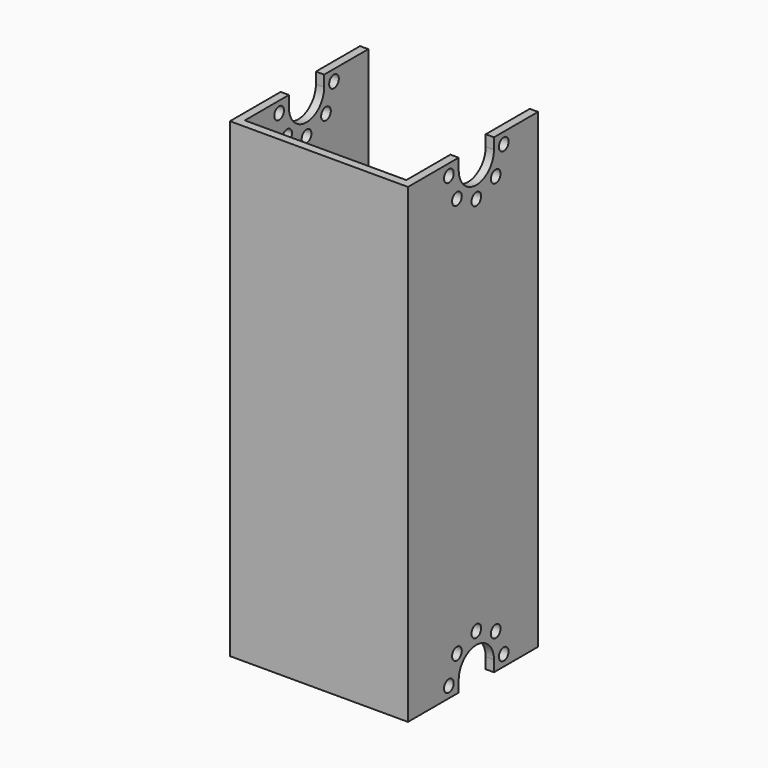
from build123d import *

# Parameters (mm, degrees)
F1_DEPTH = 28
F2_R     = 1.1
F3_DEPTH = 32.301
F4_R     = 1.1
F5_DEPTH = 1.5
F6_W     = 1.5
F6_H     = 86.945
F7_DEPTH = 32.3
F8_R     = 1.1
F9_DEPTH = 32.301


with BuildPart() as f1:
    # F0 (on Front) → F1 (new body)
    with BuildSketch(Plane.XZ):
        Polygon((0, 86.945), (0, 0), (1.5, 0), (1.5, 85.445), (30.8, 85.445), (30.8, 0), (32.3, 0), (32.3, 86.945), align=None)
    extrude(amount=F1_DEPTH)

    # F2 (on face) → F3 (cut, through all)
    with BuildSketch(Plane(origin=(0, 0, 0), x_dir=(0, -1, 0), z_dir=(-1, 0, 0))):
        with BuildLine():
            Line((18, 0), (18, 2))
            ThreePointArc((18, 2), (14, 6), (10, 2))
            Line((10, 2), (10, 0))
            Line((10, 0), (18, 0))
        make_face()
        with Locations((20.22254, 2)):
            Circle(F2_R)
        with Locations((18.4, 6.4)):
            Circle(F2_R)
        with Locations((14, 8.22254)):
            Circle(F2_R)
        with Locations((9.6, 6.4)):
            Circle(F2_R)
        with Locations((7.77746, 2)):
            Circle(F2_R)
    extrude(amount=-F3_DEPTH, mode=Mode.SUBTRACT)

    # F4 (on face) → F5 (cut, through all)
    with BuildSketch(Plane.XY.offset(86.945)):
        with Locations((6.15, -4)):
            Circle(F4_R)
        with Locations((26.15, -4)):
            Circle(F4_R)
        with Locations((6.15, -24)):
            Circle(F4_R)
        with Locations((26.15, -24)):
            Circle(F4_R)
    extrude(amount=-F5_DEPTH, mode=Mode.SUBTRACT)

    # F6 (on face) → F7 (join)
    with BuildSketch(Plane.YZ.offset(32.3)):
        with Locations((-28.75, 43.4725)):
            Rectangle(F6_W, F6_H)
    extrude(amount=-F7_DEPTH)

    # F8 (on face) → F9 (cut, through all)
    with BuildSketch(Plane.YZ.offset(32.3)):
        Polygon((0, 86.945), (-29.5, 86.945), (-29.5, 85.445), (-18, 85.445), (-10, 85.445), (0, 85.445), align=None)
        with BuildLine():
            Line((-10, 85.445), (-18, 85.445))
            Line((-18, 85.445), (-18, 83.445))
            ThreePointArc((-18, 83.445), (-14, 79.445), (-10, 83.445))
            Line((-10, 83.445), (-10, 85.445))
        make_face()
        with Locations((-18.4, 6.4)):
            Circle(F8_R)
        with Locations((-14, 8.22254)):
            Circle(F8_R)
        with Locations((-9.6, 6.4)):
            Circle(F8_R)
        with Locations((-7.77746, 2)):
            Circle(F8_R)
        with Locations((-20.22254, 2)):
            Circle(F8_R)
        with Locations((-9.6, 79.045)):
            Circle(F8_R)
        with Locations((-18.4, 79.045)):
            Circle(F8_R)
        with Locations((-7.77746, 83.445)):
            Circle(F8_R)
        with Locations((-14, 77.22246)):
            Circle(F8_R)
        with Locations((-20.22254, 83.445)):
            Circle(F8_R)
    extrude(amount=-F9_DEPTH, mode=Mode.SUBTRACT)


solid = f1.part
